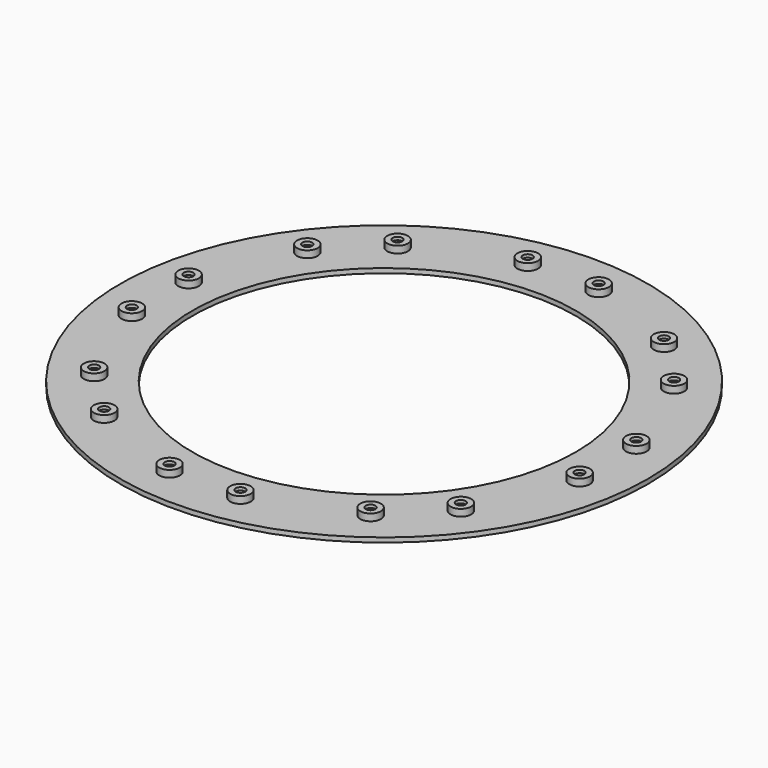
from build123d import *

# Parameters (mm, degrees)
SKETCH006_R     = 115
PAD002_DEPTH    = 2
SKETCH007_R     = 83.5
POCKET001_DEPTH = 5
SKETCH008_R     = 2.1
POCKET002_DEPTH = 5
SKETCH009_R     = 4.5
SKETCH009_R_2   = 2.1
PAD008_DEPTH    = 3
POCKET013_DEPTH = 3.7


with BuildPart() as part:
    # Sketch006 → Pad002 (new body)
    with BuildSketch(Plane.XY):
        Circle(SKETCH006_R)
    extrude(amount=PAD002_DEPTH)

    # Sketch007 (on Face3 of Pad002) → Pocket001 (cut)
    with BuildSketch(Plane.XY.offset(2)):
        Circle(SKETCH007_R)
    extrude(amount=-POCKET001_DEPTH, mode=Mode.SUBTRACT)

    # Sketch008 (on Face3 of Pocket001) → Pocket002 (cut)
    with BuildSketch(Plane.XY.offset(2)):
        with Locations((15.447872, 97.534217)):
            Circle(SKETCH008_R)
        with Locations((58.043797, 79.890427)):
            Circle(SKETCH008_R)
        with Locations((79.890404, 58.043835)):
            Circle(SKETCH008_R)
        with Locations((97.534243, 15.447889)):
            Circle(SKETCH008_R)
        with Locations((15.447872, -97.534217)):
            Circle(SKETCH008_R)
        with Locations((58.043797, -79.890427)):
            Circle(SKETCH008_R)
        with Locations((79.890404, -58.043835)):
            Circle(SKETCH008_R)
        with Locations((97.534243, -15.447889)):
            Circle(SKETCH008_R)
        with Locations((-15.447872, 97.534217)):
            Circle(SKETCH008_R)
        with Locations((-58.043797, 79.890427)):
            Circle(SKETCH008_R)
        with Locations((-79.890404, 58.043835)):
            Circle(SKETCH008_R)
        with Locations((-97.534243, 15.447889)):
            Circle(SKETCH008_R)
        with Locations((-15.447872, -97.534217)):
            Circle(SKETCH008_R)
        with Locations((-58.043797, -79.890427)):
            Circle(SKETCH008_R)
        with Locations((-79.890404, -58.043835)):
            Circle(SKETCH008_R)
        with Locations((-97.534243, -15.447889)):
            Circle(SKETCH008_R)
    extrude(amount=-POCKET002_DEPTH, mode=Mode.SUBTRACT)

    # Sketch009 (on Face3 of Pocket002) → Pad008 (join)
    with BuildSketch(Plane.XY.offset(2)):
        with Locations((15.447874, 97.534228)):
            Circle(SKETCH009_R)
        with Locations((15.447874, 97.534228)):
            Circle(SKETCH009_R_2, mode=Mode.SUBTRACT)
        with Locations((58.043777, 79.890442)):
            Circle(SKETCH009_R)
        with Locations((58.043777, 79.89044)):
            Circle(SKETCH009_R_2, mode=Mode.SUBTRACT)
        with Locations((79.890404, 58.043831)):
            Circle(SKETCH009_R)
        with Locations((79.890401, 58.043831)):
            Circle(SKETCH009_R_2, mode=Mode.SUBTRACT)
        with Locations((97.534218, 15.447939)):
            Circle(SKETCH009_R)
        with Locations((97.534218, 15.447939)):
            Circle(SKETCH009_R_2, mode=Mode.SUBTRACT)
        with Locations((15.447874, -97.534228)):
            Circle(SKETCH009_R)
        with Locations((15.447874, -97.534228)):
            Circle(SKETCH009_R_2, mode=Mode.SUBTRACT)
        with Locations((58.043777, -79.890442)):
            Circle(SKETCH009_R)
        with Locations((58.043777, -79.89044)):
            Circle(SKETCH009_R_2, mode=Mode.SUBTRACT)
        with Locations((79.890404, -58.043831)):
            Circle(SKETCH009_R)
        with Locations((79.890401, -58.043831)):
            Circle(SKETCH009_R_2, mode=Mode.SUBTRACT)
        with Locations((97.534218, -15.447939)):
            Circle(SKETCH009_R)
        with Locations((97.534218, -15.447939)):
            Circle(SKETCH009_R_2, mode=Mode.SUBTRACT)
        with Locations((-15.447874, 97.534228)):
            Circle(SKETCH009_R)
        with Locations((-15.447874, 97.534228)):
            Circle(SKETCH009_R_2, mode=Mode.SUBTRACT)
        with Locations((-58.043777, 79.890442)):
            Circle(SKETCH009_R)
        with Locations((-58.043777, 79.89044)):
            Circle(SKETCH009_R_2, mode=Mode.SUBTRACT)
        with Locations((-79.890404, 58.043831)):
            Circle(SKETCH009_R)
        with Locations((-79.890401, 58.043831)):
            Circle(SKETCH009_R_2, mode=Mode.SUBTRACT)
        with Locations((-97.534218, 15.447939)):
            Circle(SKETCH009_R)
        with Locations((-97.534218, 15.447939)):
            Circle(SKETCH009_R_2, mode=Mode.SUBTRACT)
        with Locations((-15.447874, -97.534228)):
            Circle(SKETCH009_R)
        with Locations((-15.447874, -97.534228)):
            Circle(SKETCH009_R_2, mode=Mode.SUBTRACT)
        with Locations((-58.043777, -79.890442)):
            Circle(SKETCH009_R)
        with Locations((-58.043777, -79.89044)):
            Circle(SKETCH009_R_2, mode=Mode.SUBTRACT)
        with Locations((-79.890404, -58.043831)):
            Circle(SKETCH009_R)
        with Locations((-79.890401, -58.043831)):
            Circle(SKETCH009_R_2, mode=Mode.SUBTRACT)
        with Locations((-97.534218, -15.447939)):
            Circle(SKETCH009_R)
        with Locations((-97.534218, -15.447939)):
            Circle(SKETCH009_R_2, mode=Mode.SUBTRACT)
    extrude(amount=PAD008_DEPTH)

    # Sketch036 (on Face2 of Pad008) → Pocket013 (cut)
    with BuildSketch(Plane(origin=(0, 0, 0), x_dir=(1, 0, 0), z_dir=(0, 0, -1))):
        Polygon((14.800221, 93.567508), (18.721258, 95.072655), (19.378282, 99.220946), (16.114268, 101.864091), (12.193231, 100.358944), (11.536207, 96.210653), align=None)
        Polygon((55.599691, 76.542655), (59.776683, 76.103636), (62.24538, 79.501508), (60.537086, 83.338398), (56.360094, 83.777417), (53.891396, 80.379545), align=None)
        Polygon((76.462278, 55.553152), (80.29917, 53.84486), (83.69704, 56.31356), (83.258019, 60.490551), (79.421127, 62.198844), (76.023257, 59.730144), align=None)
        Polygon((93.227012, 14.730983), (95.870159, 11.466971), (100.018449, 12.123997), (101.523593, 16.045036), (98.880446, 19.309048), (94.732156, 18.652022), align=None)
        Polygon((-14.800222, 93.567508), (-18.721259, 95.072655), (-19.378283, 99.220946), (-16.114269, 101.864091), (-12.193232, 100.358944), (-11.536208, 96.210653), align=None)
        Polygon((-55.599691, 76.542655), (-59.776683, 76.103636), (-62.245381, 79.501508), (-60.537086, 83.338398), (-56.360094, 83.777417), (-53.891397, 80.379545), align=None)
        Polygon((-76.462278, 55.553152), (-80.29917, 53.84486), (-83.69704, 56.31356), (-83.258019, 60.490551), (-79.421127, 62.198844), (-76.023257, 59.730144), align=None)
        Polygon((-93.227012, 14.730983), (-95.870158, 11.466971), (-100.018449, 12.123998), (-101.523593, 16.045036), (-98.880446, 19.309048), (-94.732156, 18.652022), align=None)
        Polygon((14.800222, -93.567508), (18.721259, -95.072655), (19.378283, -99.220946), (16.114269, -101.864091), (12.193232, -100.358944), (11.536208, -96.210653), align=None)
        Polygon((55.599691, -76.542655), (59.776683, -76.103636), (62.245381, -79.501508), (60.537086, -83.338398), (56.360094, -83.777417), (53.891397, -80.379545), align=None)
        Polygon((76.462278, -55.553152), (80.29917, -53.84486), (83.69704, -56.31356), (83.258019, -60.490551), (79.421127, -62.198844), (76.023257, -59.730144), align=None)
        Polygon((93.227012, -14.730983), (95.870158, -11.466971), (100.018449, -12.123998), (101.523593, -16.045036), (98.880446, -19.309048), (94.732156, -18.652022), align=None)
        Polygon((-14.800222, -93.567508), (-18.721259, -95.072655), (-19.378283, -99.220946), (-16.114269, -101.864091), (-12.193232, -100.358944), (-11.536208, -96.210653), align=None)
        Polygon((-55.599691, -76.542655), (-59.776683, -76.103636), (-62.245381, -79.501508), (-60.537086, -83.338398), (-56.360094, -83.777417), (-53.891397, -80.379545), align=None)
        Polygon((-76.462278, -55.553152), (-80.29917, -53.84486), (-83.69704, -56.31356), (-83.258019, -60.490551), (-79.421127, -62.198844), (-76.023257, -59.730144), align=None)
        Polygon((-93.227012, -14.730983), (-95.870158, -11.466971), (-100.018449, -12.123998), (-101.523593, -16.045036), (-98.880446, -19.309048), (-94.732156, -18.652022), align=None)
    extrude(amount=-POCKET013_DEPTH, mode=Mode.SUBTRACT)


with BuildPart() as part_1:
    # Body003 placement: moved
    add(part.part.moved(Location((0, 0, 8.7))))


solid = part_1.part
